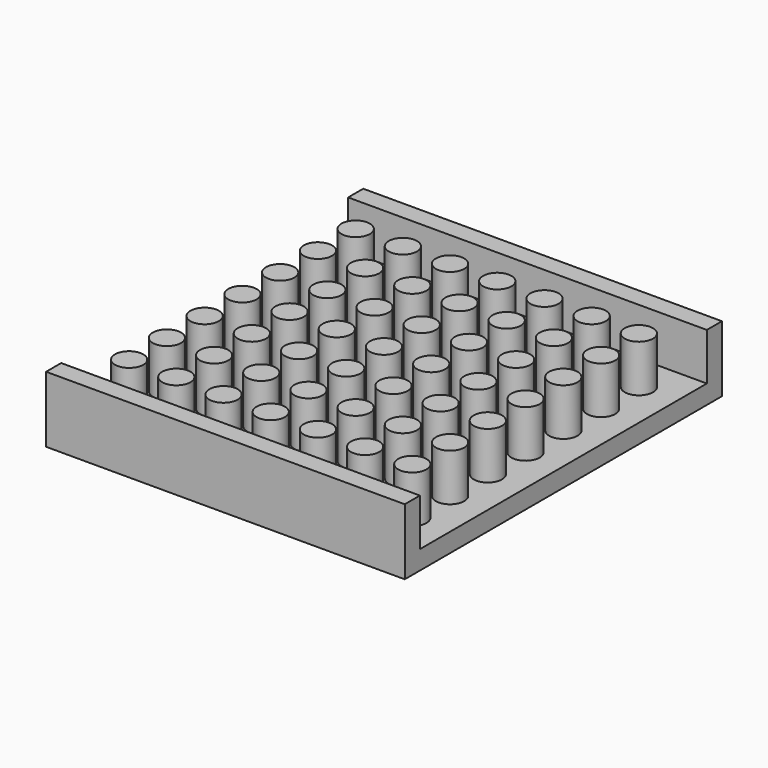
from build123d import *

# Parameters (mm, degrees)
F0_W     = 38
F0_H     = 38
F0_H_2   = 2
F1_DEPTH = 2
F2_R     = 1.5
F3_DEPTH = 5


with BuildPart() as f1:
    # F0 (on Top) → F1 (new body)
    with BuildSketch(Plane.XY):
        Rectangle(F0_W, F0_H)
        with Locations((0, 20)):
            Rectangle(F0_W, F0_H_2)
        with Locations((0, -20)):
            Rectangle(F0_W, F0_H_2)
    extrude(amount=-F1_DEPTH)

    # F2 (on face) + F0 (on Top) → F3 (join)
    with BuildSketch(Plane.XY):
        Circle(F2_R)
        with Locations((0, 5)):
            Circle(F2_R)
        with Locations((0, 10)):
            Circle(F2_R)
        with Locations((0, 15)):
            Circle(F2_R)
        with Locations((5, 0)):
            Circle(F2_R)
        with Locations((5, 5)):
            Circle(F2_R)
        with Locations((5, 10)):
            Circle(F2_R)
        with Locations((5, 15)):
            Circle(F2_R)
        with Locations((10, 0)):
            Circle(F2_R)
        with Locations((10, 5)):
            Circle(F2_R)
        with Locations((10, 10)):
            Circle(F2_R)
        with Locations((10, 15)):
            Circle(F2_R)
        with Locations((15, 0)):
            Circle(F2_R)
        with Locations((15, 5)):
            Circle(F2_R)
        with Locations((15, 10)):
            Circle(F2_R)
        with Locations((15, 15)):
            Circle(F2_R)
        with Locations((-5, 0)):
            Circle(F2_R)
        with Locations((-5, 10)):
            Circle(F2_R)
        with Locations((-5, 5)):
            Circle(F2_R)
        with Locations((-5, 15)):
            Circle(F2_R)
        with Locations((-10, 10)):
            Circle(F2_R)
        with Locations((-10, 15)):
            Circle(F2_R)
        with Locations((-15, 0)):
            Circle(F2_R)
        with Locations((-15, 10)):
            Circle(F2_R)
        with Locations((-10, 0)):
            Circle(F2_R)
        with Locations((-10, 5)):
            Circle(F2_R)
        with Locations((-15, 5)):
            Circle(F2_R)
        with Locations((-15, 15)):
            Circle(F2_R)
        with Locations((15, -5)):
            Circle(F2_R)
        with Locations((5, -10)):
            Circle(F2_R)
        with Locations((0, -10)):
            Circle(F2_R)
        with Locations((-10, -15)):
            Circle(F2_R)
        with Locations((10, -10)):
            Circle(F2_R)
        with Locations((-5, -10)):
            Circle(F2_R)
        with Locations((0, -15)):
            Circle(F2_R)
        with Locations((-5, -5)):
            Circle(F2_R)
        with Locations((-15, -10)):
            Circle(F2_R)
        with Locations((-10, -5)):
            Circle(F2_R)
        with Locations((-5, -15)):
            Circle(F2_R)
        with Locations((15, -15)):
            Circle(F2_R)
        with Locations((15, -10)):
            Circle(F2_R)
        with Locations((10, -15)):
            Circle(F2_R)
        with Locations((5, -5)):
            Circle(F2_R)
        with Locations((-10, -10)):
            Circle(F2_R)
        with Locations((0, -5)):
            Circle(F2_R)
        with Locations((-15, -15)):
            Circle(F2_R)
        with Locations((-15, -5)):
            Circle(F2_R)
        with Locations((5, -15)):
            Circle(F2_R)
        with Locations((10, -5)):
            Circle(F2_R)
    with BuildSketch(Plane.XY):
        with Locations((0, 20)):
            Rectangle(F0_W, F0_H_2)
        with Locations((0, -20)):
            Rectangle(F0_W, F0_H_2)
    extrude(amount=F3_DEPTH)


solid = f1.part
